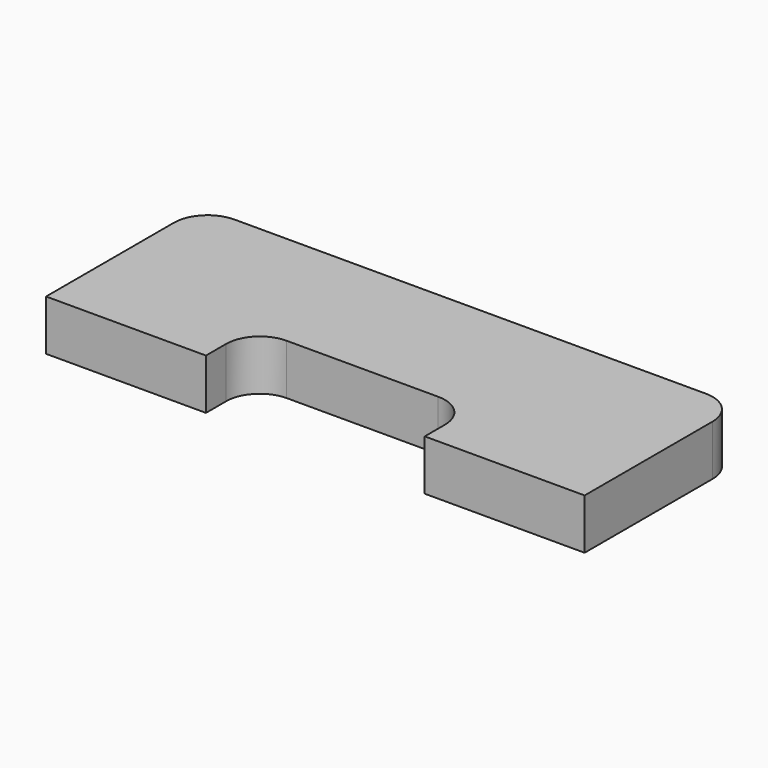
from build123d import *

# Parameters (mm, degrees)
F0_W     = 32
F0_H     = 11.5
F1_DEPTH = 3
F2_R     = 2
F3_W     = 13
F3_H     = 3.5
F4_DEPTH = 3.001
F5_R     = 2


with BuildPart() as f1:
    # F0 (on Top) → F1 (new body)
    with BuildSketch(Plane.XY):
        with Locations((0, 5.75)):
            Rectangle(F0_W, F0_H)
    extrude(amount=F1_DEPTH)

    # F2
    f2_edges = [f1.edges().sort_by_distance(p)[0] for p in [
        (-16, 11.5, 1.5),
        (16, 11.5, 1.5),
    ]]
    fillet(f2_edges, radius=F2_R)

    # F3 (on face) → F4 (cut, through all)
    with BuildSketch(Plane.XY.offset(3)):
        with Locations((0, 1.75)):
            Rectangle(F3_W, F3_H)
    extrude(amount=-F4_DEPTH, mode=Mode.SUBTRACT)

    # F5
    f5_edges = [f1.edges().sort_by_distance(p)[0] for p in [
        (-6.5, 3.5, 1.5),
        (6.5, 3.5, 1.5),
    ]]
    fillet(f5_edges, radius=F5_R)


solid = f1.part
